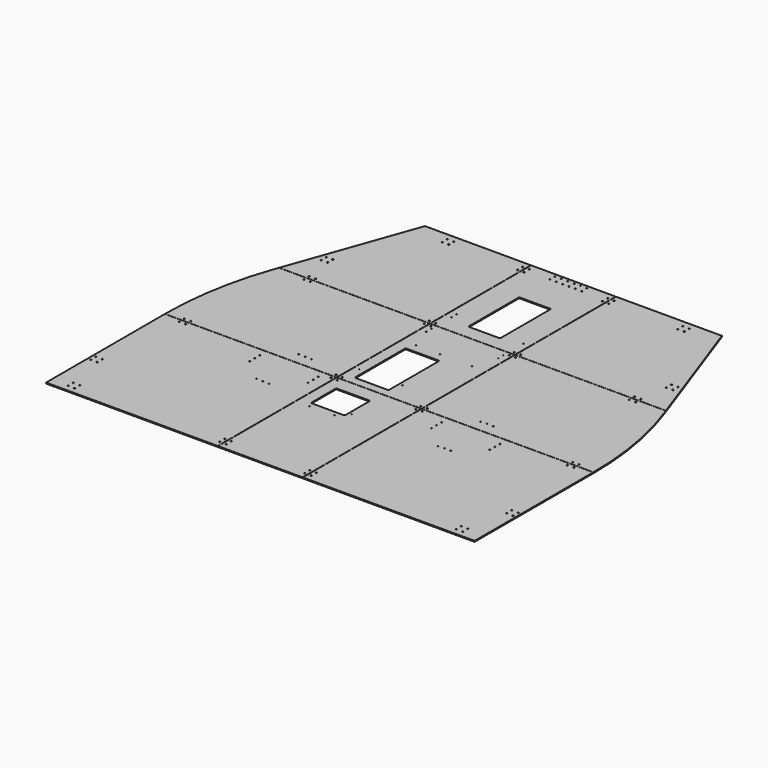
from build123d import *

# Parameters (mm, degrees)
F0_W      = 400
F0_H      = 700
F0_R      = 3
F0_R_2    = 2.05
F0_W_2    = 160
F0_H_2    = 150
F1_DEPTH  = 4.5
F2_R      = 3
F2_R_2    = 2.5
F3_DEPTH  = 4.5
F4_DEPTH  = 4.5
F5_W      = 400
F5_H      = 550
F5_R      = 3
F5_R_2    = 2.05
F5_W_2    = 160
F5_H_2    = 300
F6_DEPTH  = 4.5
F7_W      = 400
F7_H      = 595
F7_R      = 3
F7_R_2    = 2.05
F7_W_2    = 150
F7_H_2    = 300
F7_R_3    = 2.5
F8_DEPTH  = 4.5
F9_W      = 810
F9_H      = 700
F9_R      = 3
F9_R_2    = 2.5
F10_DEPTH = 4.5
F12_W     = 1060.3530521393
F12_H     = 1
F12_W_2   = 1
F12_H_2   = 549
F12_W_3   = 399
F12_W_4   = 935.9718675613
F12_H_3   = 781.2182600498
F12_H_4   = 690.7353992462
F12_W_5   = 1032.0835227966
F12_W_6   = 863.0281324387
F13_DEPTH = 25
F14_R     = 5
F14_2_R   = 5
F14_3_R   = 5


with BuildPart() as f1:
    # F0 (on Top) → F1 (new body)
    with BuildSketch(Plane.XY):
        Rectangle(F0_W, F0_H)
        with Locations((-185, -320)):
            Circle(F0_R, mode=Mode.SUBTRACT)
        with Locations((-185, -290)):
            Circle(F0_R, mode=Mode.SUBTRACT)
        with Locations((185, -320)):
            Circle(F0_R, mode=Mode.SUBTRACT)
        with Locations((185, -290)):
            Circle(F0_R, mode=Mode.SUBTRACT)
        with Locations((-134.5, 109)):
            Circle(F0_R_2, mode=Mode.SUBTRACT)
        with Locations((-17.5, 109)):
            Circle(F0_R_2, mode=Mode.SUBTRACT)
        with Locations((-185, 335)):
            Circle(F0_R, mode=Mode.SUBTRACT)
        with Locations((-67.5, 206.5)):
            Rectangle(F0_W_2, F0_H_2, mode=Mode.SUBTRACT)
        with Locations((27.5, 154)):
            Circle(F0_R_2, mode=Mode.SUBTRACT)
        with Locations((185, 335)):
            Circle(F0_R, mode=Mode.SUBTRACT)
    extrude(amount=F1_DEPTH)


with BuildPart() as f3:
    # F2 (on Top) → F3 (new body)
    with BuildSketch(Plane.XY):
        with BuildLine():
            Line((-200, 350), (-200, 900))
            Line((-200, 900), (-912, 900))
            Line((-912, 900), (-918.7126851943, 881.1601524029))
            ThreePointArc((-918.7126851943, 881.1601524029), (-986.7602398243, 622.4260960411), (-1010, 355.9046238114))
            Line((-1010, 355.9046238114), (-1010, 350))
            Line((-1010, 350), (-200, 350))
        make_face()
        with Locations((-930, 365)):
            Circle(F2_R, mode=Mode.SUBTRACT)
        with Locations((-900, 365)):
            Circle(F2_R, mode=Mode.SUBTRACT)
        with Locations((-423.5, 406)):
            Circle(F2_R_2, mode=Mode.SUBTRACT)
        with Locations((-393.5, 406)):
            Circle(F2_R_2, mode=Mode.SUBTRACT)
        with Locations((-363.5, 406)):
            Circle(F2_R_2, mode=Mode.SUBTRACT)
        with Locations((-215, 365)):
            Circle(F2_R, mode=Mode.SUBTRACT)
        with Locations((-782, 885)):
            Circle(F2_R, mode=Mode.SUBTRACT)
        with Locations((-752, 885)):
            Circle(F2_R, mode=Mode.SUBTRACT)
        with Locations((-215, 885)):
            Circle(F2_R, mode=Mode.SUBTRACT)
    extrude(amount=F3_DEPTH)


with BuildPart() as f3b:
    # F2 (on Top) → F3, piece 2 (new body)
    with BuildSketch(Plane.XY):
        with BuildLine():
            Line((912, 900), (200, 900))
            Line((200, 900), (200, 350))
            Line((200, 350), (1010, 350))
            ThreePointArc((1010, 350), (987.2630336724, 619.5169120312), (918.7126851943, 881.1601524029))
            Line((918.7126851943, 881.1601524029), (912, 900))
        make_face()
        with Locations((215, 365)):
            Circle(F2_R, mode=Mode.SUBTRACT)
        with Locations((433.5, 406)):
            Circle(F2_R_2, mode=Mode.SUBTRACT)
        with Locations((463.5, 406)):
            Circle(F2_R_2, mode=Mode.SUBTRACT)
        with Locations((493.5, 406)):
            Circle(F2_R_2, mode=Mode.SUBTRACT)
        with Locations((900, 365)):
            Circle(F2_R, mode=Mode.SUBTRACT)
        with Locations((930, 365)):
            Circle(F2_R, mode=Mode.SUBTRACT)
        with Locations((215, 885)):
            Circle(F2_R, mode=Mode.SUBTRACT)
        with Locations((752, 885)):
            Circle(F2_R, mode=Mode.SUBTRACT)
        with Locations((782, 885)):
            Circle(F2_R, mode=Mode.SUBTRACT)
    extrude(amount=F3_DEPTH)


with BuildPart() as f4:
    # F2 (on Top) → F4 (new body)
    with BuildSketch(Plane.XY):
        Polygon((-912, 900), (-200, 900), (-200, 1495), (-700, 1495), align=None)
        with Locations((-782, 915)):
            Circle(F2_R, mode=Mode.SUBTRACT)
        with Locations((-752, 915)):
            Circle(F2_R, mode=Mode.SUBTRACT)
        with Locations((-215, 915)):
            Circle(F2_R, mode=Mode.SUBTRACT)
        with Locations((-828.5, 1045)):
            Circle(F2_R, mode=Mode.SUBTRACT)
        with Locations((-798.5, 1045)):
            Circle(F2_R, mode=Mode.SUBTRACT)
        with Locations((-828.5, 1075)):
            Circle(F2_R, mode=Mode.SUBTRACT)
        with Locations((-798.5, 1075)):
            Circle(F2_R, mode=Mode.SUBTRACT)
        with Locations((-570, 1435)):
            Circle(F2_R, mode=Mode.SUBTRACT)
        with Locations((-540, 1435)):
            Circle(F2_R, mode=Mode.SUBTRACT)
        with Locations((-570, 1465)):
            Circle(F2_R, mode=Mode.SUBTRACT)
        with Locations((-540, 1465)):
            Circle(F2_R, mode=Mode.SUBTRACT)
        with Locations((-215, 1435)):
            Circle(F2_R, mode=Mode.SUBTRACT)
        with Locations((-215, 1465)):
            Circle(F2_R, mode=Mode.SUBTRACT)
    extrude(amount=F4_DEPTH)


with BuildPart() as f4b:
    # F2 (on Top) → F4, piece 2 (new body)
    with BuildSketch(Plane.XY):
        Polygon((700, 1495), (200, 1495), (200, 900), (912, 900), align=None)
        with Locations((215, 915)):
            Circle(F2_R, mode=Mode.SUBTRACT)
        with Locations((752, 915)):
            Circle(F2_R, mode=Mode.SUBTRACT)
        with Locations((782, 915)):
            Circle(F2_R, mode=Mode.SUBTRACT)
        with Locations((798.5, 1045)):
            Circle(F2_R, mode=Mode.SUBTRACT)
        with Locations((828.5, 1045)):
            Circle(F2_R, mode=Mode.SUBTRACT)
        with Locations((798.5, 1075)):
            Circle(F2_R, mode=Mode.SUBTRACT)
        with Locations((828.5, 1075)):
            Circle(F2_R, mode=Mode.SUBTRACT)
        with Locations((215, 1435)):
            Circle(F2_R, mode=Mode.SUBTRACT)
        with Locations((215, 1465)):
            Circle(F2_R, mode=Mode.SUBTRACT)
        with Locations((540, 1435)):
            Circle(F2_R, mode=Mode.SUBTRACT)
        with Locations((570, 1435)):
            Circle(F2_R, mode=Mode.SUBTRACT)
        with Locations((540, 1465)):
            Circle(F2_R, mode=Mode.SUBTRACT)
        with Locations((570, 1465)):
            Circle(F2_R, mode=Mode.SUBTRACT)
    extrude(amount=F4_DEPTH)


with BuildPart() as f6:
    # F5 (on Top) → F6 (new body)
    with BuildSketch(Plane.XY):
        with Locations((0, 625)):
            Rectangle(F5_W, F5_H)
        with Locations((-185, 365)):
            Circle(F5_R, mode=Mode.SUBTRACT)
        with Locations((-177.5, 454)):
            Circle(F5_R_2, mode=Mode.SUBTRACT)
        with Locations((-67.5, 540)):
            Rectangle(F5_W_2, F5_H_2, mode=Mode.SUBTRACT)
        with Locations((27.5, 454)):
            Circle(F5_R_2, mode=Mode.SUBTRACT)
        with Locations((185, 365)):
            Circle(F5_R, mode=Mode.SUBTRACT)
        with Locations((-132.5, 731.6)):
            Circle(F5_R_2, mode=Mode.SUBTRACT)
        with Locations((-17.5, 731.6)):
            Circle(F5_R_2, mode=Mode.SUBTRACT)
        with Locations((-170, 840)):
            Circle(F5_R_2, mode=Mode.SUBTRACT)
        with Locations((-185, 885)):
            Circle(F5_R, mode=Mode.SUBTRACT)
        with Locations((-170, 870)):
            Circle(F5_R_2, mode=Mode.SUBTRACT)
        with Locations((132.5, 731.6)):
            Circle(F5_R_2, mode=Mode.SUBTRACT)
        with Locations((170, 840)):
            Circle(F5_R_2, mode=Mode.SUBTRACT)
        with Locations((170, 870)):
            Circle(F5_R_2, mode=Mode.SUBTRACT)
        with Locations((185, 885)):
            Circle(F5_R, mode=Mode.SUBTRACT)
    extrude(amount=F6_DEPTH)


with BuildPart() as f8:
    # F7 (on Top) → F8 (new body)
    with BuildSketch(Plane.XY):
        with Locations((0, 1197.5)):
            Rectangle(F7_W, F7_H)
        with Locations((-185, 915)):
            Circle(F7_R, mode=Mode.SUBTRACT)
        with Locations((-170, 988)):
            Circle(F7_R_2, mode=Mode.SUBTRACT)
        with Locations((-170, 1018)):
            Circle(F7_R_2, mode=Mode.SUBTRACT)
        with Locations((185, 915)):
            Circle(F7_R, mode=Mode.SUBTRACT)
        with Locations((170, 988)):
            Circle(F7_R_2, mode=Mode.SUBTRACT)
        with Locations((170, 1018)):
            Circle(F7_R_2, mode=Mode.SUBTRACT)
        with Locations((0, 1119)):
            Rectangle(F7_W_2, F7_H_2, mode=Mode.SUBTRACT)
        with Locations((-185, 1435)):
            Circle(F7_R, mode=Mode.SUBTRACT)
        with Locations((-185, 1465)):
            Circle(F7_R, mode=Mode.SUBTRACT)
        with Locations((-75, 1450)):
            Circle(F7_R_3, mode=Mode.SUBTRACT)
        with Locations((-75, 1480)):
            Circle(F7_R_3, mode=Mode.SUBTRACT)
        with Locations((-45, 1450)):
            Circle(F7_R_3, mode=Mode.SUBTRACT)
        with Locations((-15, 1450)):
            Circle(F7_R, mode=Mode.SUBTRACT)
        with Locations((-45, 1480)):
            Circle(F7_R_3, mode=Mode.SUBTRACT)
        with Locations((-15, 1480)):
            Circle(F7_R, mode=Mode.SUBTRACT)
        with Locations((15, 1450)):
            Circle(F7_R, mode=Mode.SUBTRACT)
        with Locations((45, 1450)):
            Circle(F7_R_3, mode=Mode.SUBTRACT)
        with Locations((15, 1480)):
            Circle(F7_R, mode=Mode.SUBTRACT)
        with Locations((45, 1480)):
            Circle(F7_R_3, mode=Mode.SUBTRACT)
        with Locations((75, 1450)):
            Circle(F7_R_3, mode=Mode.SUBTRACT)
        with Locations((75, 1480)):
            Circle(F7_R_3, mode=Mode.SUBTRACT)
        with Locations((185, 1435)):
            Circle(F7_R, mode=Mode.SUBTRACT)
        with Locations((185, 1465)):
            Circle(F7_R, mode=Mode.SUBTRACT)
    extrude(amount=F8_DEPTH)


with BuildPart() as f10:
    # F9 (on Top) → F10 (new body)
    with BuildSketch(Plane.XY):
        with Locations((-605, 0)):
            Rectangle(F9_W, F9_H)
        with Locations((-930, -320)):
            Circle(F9_R, mode=Mode.SUBTRACT)
        with Locations((-900, -320)):
            Circle(F9_R, mode=Mode.SUBTRACT)
        with Locations((-930, -290)):
            Circle(F9_R, mode=Mode.SUBTRACT)
        with Locations((-900, -290)):
            Circle(F9_R, mode=Mode.SUBTRACT)
        with Locations((-215, -320)):
            Circle(F9_R, mode=Mode.SUBTRACT)
        with Locations((-215, -290)):
            Circle(F9_R, mode=Mode.SUBTRACT)
        with Locations((-995, -105)):
            Circle(F9_R, mode=Mode.SUBTRACT)
        with Locations((-965, -105)):
            Circle(F9_R, mode=Mode.SUBTRACT)
        with Locations((-995, -75)):
            Circle(F9_R, mode=Mode.SUBTRACT)
        with Locations((-965, -75)):
            Circle(F9_R, mode=Mode.SUBTRACT)
        with Locations((-423.5, 156)):
            Circle(F9_R_2, mode=Mode.SUBTRACT)
        with Locations((-393.5, 156)):
            Circle(F9_R_2, mode=Mode.SUBTRACT)
        with Locations((-363.5, 156)):
            Circle(F9_R_2, mode=Mode.SUBTRACT)
        with Locations((-531, 251)):
            Circle(F9_R_2, mode=Mode.SUBTRACT)
        with Locations((-930, 335)):
            Circle(F9_R, mode=Mode.SUBTRACT)
        with Locations((-900, 335)):
            Circle(F9_R, mode=Mode.SUBTRACT)
        with Locations((-531, 281)):
            Circle(F9_R_2, mode=Mode.SUBTRACT)
        with Locations((-531, 311)):
            Circle(F9_R_2, mode=Mode.SUBTRACT)
        with Locations((-256, 251)):
            Circle(F9_R_2, mode=Mode.SUBTRACT)
        with Locations((-256, 281)):
            Circle(F9_R_2, mode=Mode.SUBTRACT)
        with Locations((-256, 311)):
            Circle(F9_R_2, mode=Mode.SUBTRACT)
        with Locations((-215, 335)):
            Circle(F9_R, mode=Mode.SUBTRACT)
    extrude(amount=F10_DEPTH)


with BuildPart() as f10b:
    # F9 (on Top) → F10, piece 2 (new body)
    with BuildSketch(Plane.XY):
        with Locations((605, 0)):
            Rectangle(F9_W, F9_H)
        with Locations((215, -320)):
            Circle(F9_R, mode=Mode.SUBTRACT)
        with Locations((215, -290)):
            Circle(F9_R, mode=Mode.SUBTRACT)
        with Locations((900, -320)):
            Circle(F9_R, mode=Mode.SUBTRACT)
        with Locations((930, -320)):
            Circle(F9_R, mode=Mode.SUBTRACT)
        with Locations((900, -290)):
            Circle(F9_R, mode=Mode.SUBTRACT)
        with Locations((930, -290)):
            Circle(F9_R, mode=Mode.SUBTRACT)
        with Locations((965, -105)):
            Circle(F9_R, mode=Mode.SUBTRACT)
        with Locations((995, -105)):
            Circle(F9_R, mode=Mode.SUBTRACT)
        with Locations((965, -75)):
            Circle(F9_R, mode=Mode.SUBTRACT)
        with Locations((995, -75)):
            Circle(F9_R, mode=Mode.SUBTRACT)
        with Locations((433.5, 156)):
            Circle(F9_R_2, mode=Mode.SUBTRACT)
        with Locations((463.5, 156)):
            Circle(F9_R_2, mode=Mode.SUBTRACT)
        with Locations((493.5, 156)):
            Circle(F9_R_2, mode=Mode.SUBTRACT)
        with Locations((326, 251)):
            Circle(F9_R_2, mode=Mode.SUBTRACT)
        with Locations((215, 335)):
            Circle(F9_R, mode=Mode.SUBTRACT)
        with Locations((326, 281)):
            Circle(F9_R_2, mode=Mode.SUBTRACT)
        with Locations((326, 311)):
            Circle(F9_R_2, mode=Mode.SUBTRACT)
        with Locations((601, 251)):
            Circle(F9_R_2, mode=Mode.SUBTRACT)
        with Locations((601, 281)):
            Circle(F9_R_2, mode=Mode.SUBTRACT)
        with Locations((601, 311)):
            Circle(F9_R_2, mode=Mode.SUBTRACT)
        with Locations((900, 335)):
            Circle(F9_R, mode=Mode.SUBTRACT)
        with Locations((930, 335)):
            Circle(F9_R, mode=Mode.SUBTRACT)
    extrude(amount=F10_DEPTH)


with BuildPart() as f13_tool:
    # F12 (on offset) → F13 (new body)
    with BuildSketch(Plane.XY.offset(8.5)):
        with Locations((-730.6765260696, 350)):
            Rectangle(F12_W, F12_H)
        with Locations((-200, 625)):
            Rectangle(F12_W_2, F12_H_2)
        with Locations((-200, 350)):
            Rectangle(F12_W_2, F12_H)
        with Locations((0, 350)):
            Rectangle(F12_W_3, F12_H)
        with Locations((-200, 900)):
            Rectangle(F12_W_2, F12_H)
        with Locations((-668.4859337807, 900)):
            Rectangle(F12_W_4, F12_H)
        with Locations((-200, -41.1091300249)):
            Rectangle(F12_W_2, F12_H_3)
        with Locations((200, 625)):
            Rectangle(F12_W_2, F12_H_2)
        with Locations((200, 350)):
            Rectangle(F12_W_2, F12_H)
        with Locations((0, 900)):
            Rectangle(F12_W_3, F12_H)
        with Locations((-200, 1245.8676996231)):
            Rectangle(F12_W_2, F12_H_4)
        with Locations((716.5417613983, 350)):
            Rectangle(F12_W_5, F12_H)
        with Locations((200, 900)):
            Rectangle(F12_W_2, F12_H)
        with Locations((200, -41.1091300249)):
            Rectangle(F12_W_2, F12_H_3)
        with Locations((632.0140662193, 900)):
            Rectangle(F12_W_6, F12_H)
        with Locations((200, 1245.8676996231)):
            Rectangle(F12_W_2, F12_H_4)
    extrude(amount=-F13_DEPTH)


with BuildPart() as f1_1:
    add(f1.part)

    # F13: cut by f13_tool
    add(f13_tool.part, mode=Mode.SUBTRACT)

    # F14
    f14_edges = [f1_1.edges().sort_by_distance(p)[0] for p in [
        (-147.5, 131.5, 2.25),
        (12.5, 131.5, 2.25),
        (12.5, 281.5, 2.25),
        (-147.5, 281.5, 2.25),
    ]]
    fillet(f14_edges, radius=F14_R)


with BuildPart() as f3_1:
    add(f3.part)

    # F13: cut by f13_tool
    add(f13_tool.part, mode=Mode.SUBTRACT)


with BuildPart() as f3b_1:
    add(f3b.part)

    # F13: cut by f13_tool
    add(f13_tool.part, mode=Mode.SUBTRACT)


with BuildPart() as f4_1:
    add(f4.part)

    # F13: cut by f13_tool
    add(f13_tool.part, mode=Mode.SUBTRACT)


with BuildPart() as f4b_1:
    add(f4b.part)

    # F13: cut by f13_tool
    add(f13_tool.part, mode=Mode.SUBTRACT)


with BuildPart() as f6_1:
    add(f6.part)

    # F13: cut by f13_tool
    add(f13_tool.part, mode=Mode.SUBTRACT)

    # F14#2
    f14_2_edges = [f6_1.edges().sort_by_distance(p)[0] for p in [
        (-147.5, 390, 2.25),
        (12.5, 390, 2.25),
        (-147.5, 690, 2.25),
        (12.5, 690, 2.25),
    ]]
    fillet(f14_2_edges, radius=F14_2_R)


with BuildPart() as f8_1:
    add(f8.part)

    # F13: cut by f13_tool
    add(f13_tool.part, mode=Mode.SUBTRACT)

    # F14#3
    f14_3_edges = [f8_1.edges().sort_by_distance(p)[0] for p in [
        (75, 1269, 2.25),
        (-75, 1269, 2.25),
        (-75, 969, 2.25),
        (75, 969, 2.25),
    ]]
    fillet(f14_3_edges, radius=F14_3_R)


with BuildPart() as f10_1:
    add(f10.part)

    # F13: cut by f13_tool
    add(f13_tool.part, mode=Mode.SUBTRACT)


with BuildPart() as f10b_1:
    add(f10b.part)

    # F13: cut by f13_tool
    add(f13_tool.part, mode=Mode.SUBTRACT)


solid = Compound([f1_1.part, f3_1.part, f3b_1.part, f4_1.part, f4b_1.part, f6_1.part, f8_1.part, f10_1.part, f10b_1.part])
